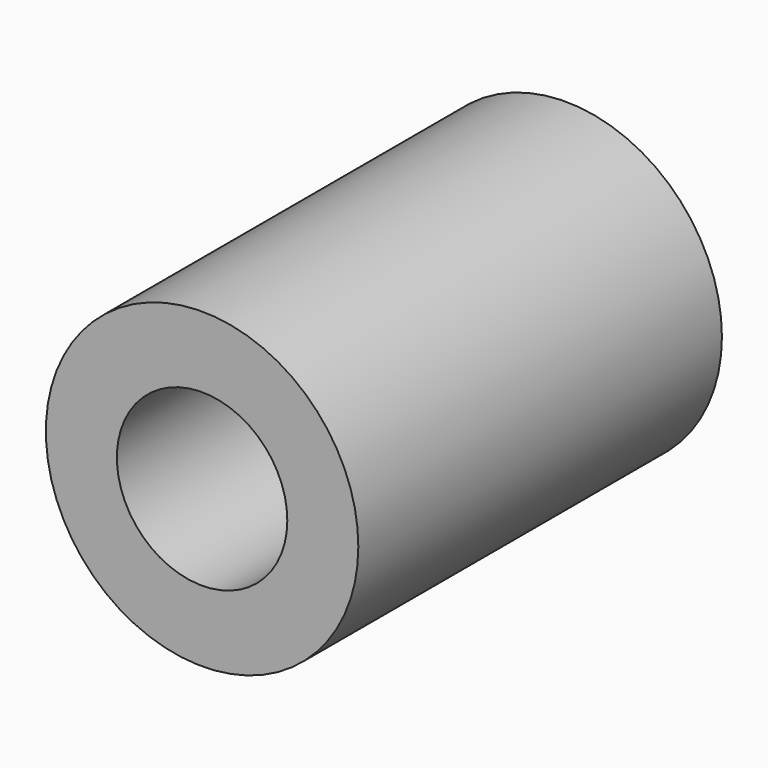
from build123d import *

# Parameters (mm, degrees)
LM12UU_0_INT_R          = 6
LM12UU_0_INT_DEPTH      = 34
LM12UU_0_INT_ROLL_ANGLE = -90
LM12UU_0_EXT_R          = 11
LM12UU_0_EXT_DEPTH      = 32
LM12UU_0_EXT_ROLL_ANGLE = -90


with BuildPart() as lm12uu_0_int:
    # lm12uu_0_int → lm12uu_0_int (new body)
    with BuildSketch(Plane.XY):
        Circle(LM12UU_0_INT_R)
    extrude(amount=LM12UU_0_INT_DEPTH)


with BuildPart() as lm12uu_0_int_1:
    # lm12uu_0_int roll: moved
    add(lm12uu_0_int.part.rotate(Axis((0, 0, 0), (1, 0, 0)), LM12UU_0_INT_ROLL_ANGLE))


with BuildPart() as lm12uu_0_int_2:
    # lm12uu_0_int placement: moved
    add(lm12uu_0_int_1.part.moved(Location((0, -82.2, 0))))


with BuildPart() as clone:
    # lm12uu_0_ext → lm12uu_0_ext (new body)
    with BuildSketch(Plane.XY):
        Circle(LM12UU_0_EXT_R)
    extrude(amount=LM12UU_0_EXT_DEPTH)


with BuildPart() as clone_1:
    # lm12uu_0_ext roll: moved
    add(clone.part.rotate(Axis((0, 0, 0), (1, 0, 0)), LM12UU_0_EXT_ROLL_ANGLE))


with BuildPart() as clone_2:
    # lm12uu_0_ext placement: moved
    add(clone_1.part.moved(Location((0, -81.2, 0))))

    # lm12uu_0: cut lm12uu_0_int
    add(lm12uu_0_int_2.part, mode=Mode.SUBTRACT)


with BuildPart() as clone_3:
    # Clone placement: moved
    add(clone_2.part.moved(Location((0, 128.4, 0))))


solid = clone_3.part
